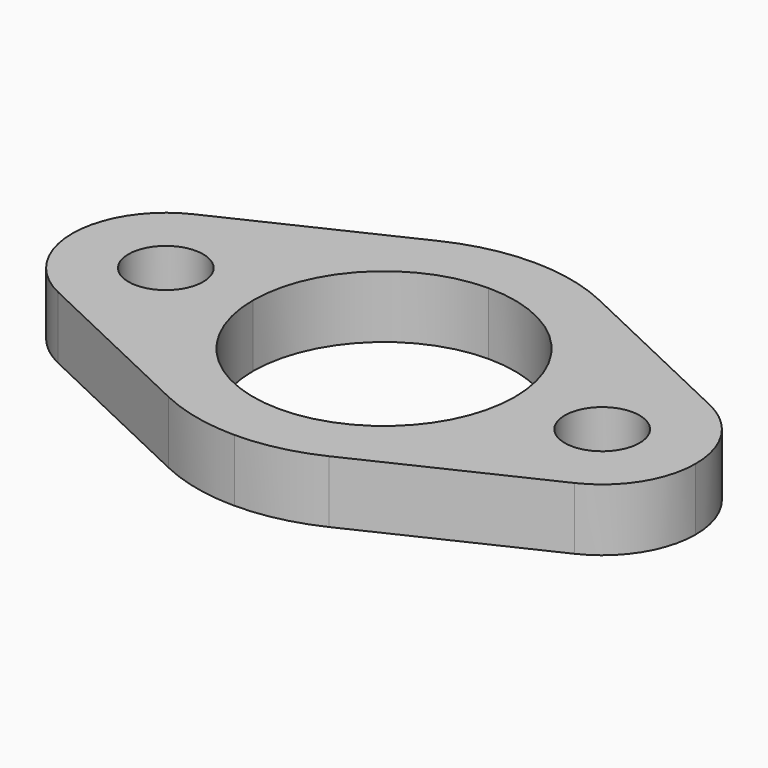
from build123d import *

# Parameters (mm, degrees)
F1_DEPTH = 10


with BuildPart() as f1:
    # F0 (on Top) → F1 (new body)
    with BuildSketch(Plane.XY):
        with BuildLine():
            Line((41.428571, 13.552619), (12.857143, 27.105237))
            ThreePointArc((12.857143, 27.105237), (6.589495, 29.267363), (0, 30))
            ThreePointArc((0, 30), (-6.589495, 29.267363), (-12.857143, 27.105237))
            Line((-12.857143, 27.105237), (-41.428571, 13.552619))
            ThreePointArc((-41.428571, 13.552619), (-47.677314, 8.017837), (-50, 0))
            ThreePointArc((-50, 0), (-47.677314, -8.017837), (-41.428571, -13.552619))
            Line((-41.428571, -13.552619), (-12.857143, -27.105237))
            ThreePointArc((-12.857143, -27.105237), (-6.589495, -29.267363), (0, -30))
            ThreePointArc((0, -30), (6.589495, -29.267363), (12.857143, -27.105237))
            Line((12.857143, -27.105237), (41.428571, -13.552619))
            ThreePointArc((41.428571, -13.552619), (47.677314, -8.017837), (50, 0))
            ThreePointArc((50, 0), (47.677314, 8.017837), (41.428571, 13.552619))
        make_face()
        with BuildLine():
            ThreePointArc((-29, 0), (-35, -6), (-41, 0))
            ThreePointArc((-41, 0), (-35, 6), (-29, 0))
        make_face(mode=Mode.SUBTRACT)
        with BuildLine():
            ThreePointArc((0, 21), (14.849242, 14.849242), (21, 0))
            ThreePointArc((21, 0), (14.849242, -14.849242), (0, -21))
            ThreePointArc((0, -21), (-14.849242, -14.849242), (-21, 0))
            ThreePointArc((-21, 0), (-14.849242, 14.849242), (0, 21))
        make_face(mode=Mode.SUBTRACT)
        with BuildLine():
            ThreePointArc((29, 0), (35, 6), (41, 0))
            ThreePointArc((41, 0), (35, -6), (29, 0))
        make_face(mode=Mode.SUBTRACT)
    extrude(amount=F1_DEPTH)


solid = f1.part
